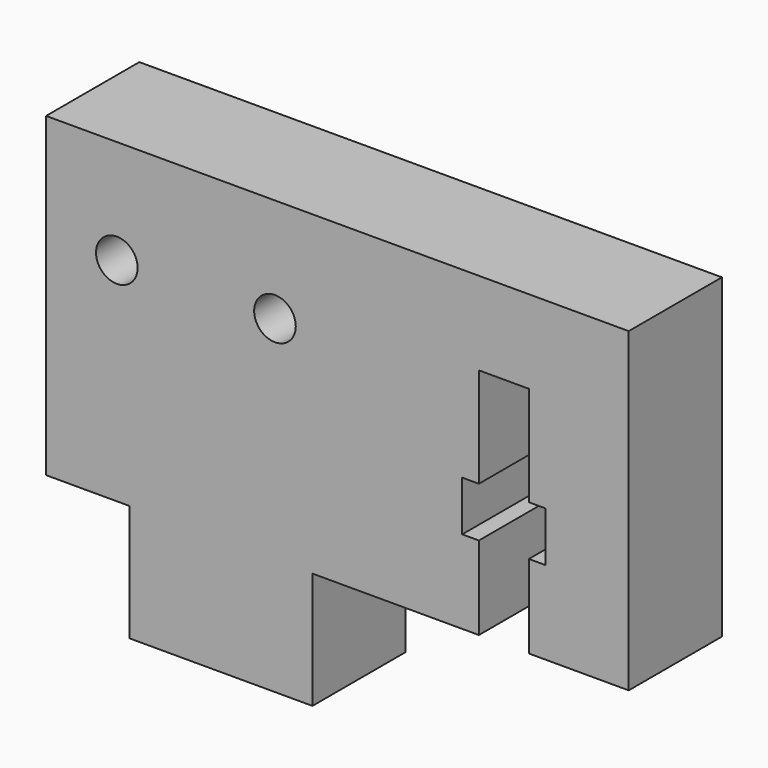
from build123d import *

# Parameters (mm, degrees)
F0_R     = 1.25
F1_DEPTH = 7


with BuildPart() as f1:
    # F0 (on Front) → F1 (new body)
    with BuildSketch(Plane.XZ):
        with BuildLine():
            Line((0, 7), (0, 0))
            Line((0, 0), (11, 0))
            Line((11, 0), (11, 7))
            Line((11, 7), (21, 7))
            Line((21, 7), (21, 12))
            Line((21, 12), (20, 12))
            Line((20, 12), (20, 15))
            Line((20, 15), (21, 15))
            Line((21, 15), (21, 21))
            Line((21, 21), (24, 21))
            Line((24, 21), (24, 15))
            Line((24, 15), (25, 15))
            Line((25, 15), (25, 12))
            Line((25, 12), (24, 12))
            Line((24, 12), (24, 7))
            Line((24, 7), (30, 7))
            Line((30, 7), (30, 26))
            Line((30, 26), (0, 26))
            Line((0, 26), (0, 20.75))
            ThreePointArc((0, 20.75), (0.368034, 20.309017), (0.5, 19.75))
            ThreePointArc((0.5, 19.75), (0.368034, 19.190983), (0, 18.75))
            Line((0, 18.75), (0, 7))
        make_face()
        with Locations((8.75, 19.75)):
            Circle(F0_R, mode=Mode.SUBTRACT)
        with BuildLine():
            Line((-5, 7), (0, 7))
            Line((0, 7), (0, 18.75))
            ThreePointArc((0, 18.75), (-2, 19.75), (0, 20.75))
            Line((0, 20.75), (0, 26))
            Line((0, 26), (-5, 26))
            Line((-5, 26), (-5, 7))
        make_face()
    extrude(amount=F1_DEPTH)


solid = f1.part
